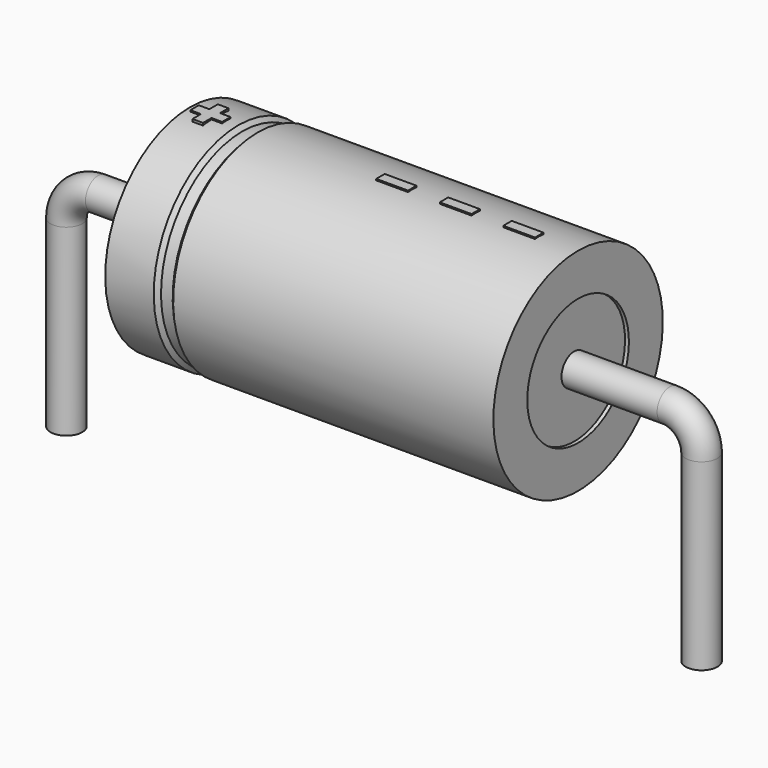
from build123d import *

# Parameters (mm, degrees)
SKETCH_R    = 0.45
SKETCH004_W = 0.9
SKETCH004_H = 0.3
PAD_DEPTH   = 3.03


with BuildPart() as sweep_body:
    # Sweep: sweep along a path in Sketch001
    with BuildLine(Plane.XZ) as sweep_path:
        Line((0, -3), (0, 2.2))
        ThreePointArc((0, 2.2), (0.2636, 2.836392), (0.899989, 3.1))
        Line((0.899989, 3.1), (17.1, 3.1))
        ThreePointArc((17.1, 3.1), (17.736396, 2.836396), (18, 2.2))
        Line((18, 2.2), (18, -3))
    # Sketch → Sweep (sweep)
    with BuildSketch(Plane.XY.offset(-2)):
        Circle(SKETCH_R)
    sweep(path=sweep_path.line)


with BuildPart() as revolution:
    # Sketch002 → Revolution (revolve)
    with BuildSketch(Plane.XZ):
        Polygon((3.5, 6.1), (3.5, 4.9), (14.5, 4.9), (14.5, 6.1), (5.425, 6.1), (5.315, 5.98), (4.985, 5.98), (4.875, 6.1), align=None)
    revolve(axis=Axis((6.97588, 0, 3.1), (1, 0, 0)))


with BuildPart() as revolution001:
    # Sketch003 → Revolution001 (revolve)
    with BuildSketch(Plane.XZ):
        Polygon((3.61, 5.98), (4.16, 5.98), (4.16, 3.4), (13.84, 3.4), (13.84, 5.98), (14.39, 5.98), (14.39, 3.1), (3.61, 3.1), align=None)
    revolve(axis=Axis((6.97588, 0, 3.1), (1, 0, 0)))


with BuildPart() as pad:
    # Sketch004 → Pad (new body)
    with BuildSketch(Plane.XY.offset(3.1)):
        with Locations((12.95, 0)):
            Rectangle(SKETCH004_W, SKETCH004_H)
        with Locations((11.15, 0)):
            Rectangle(SKETCH004_W, SKETCH004_H)
        with Locations((9.35, 0)):
            Rectangle(SKETCH004_W, SKETCH004_H)
        Polygon((3.932, 0.15), (3.632, 0.15), (3.632, -0.15), (3.932, -0.15), (3.932, -0.45), (4.232, -0.45), (4.232, -0.15), (4.532, -0.15), (4.532, 0.15), (4.232, 0.15), (4.232, 0.45), (3.932, 0.45), align=None)
    extrude(amount=PAD_DEPTH)


solid = Compound([sweep_body.part, revolution.part, revolution001.part, pad.part])
